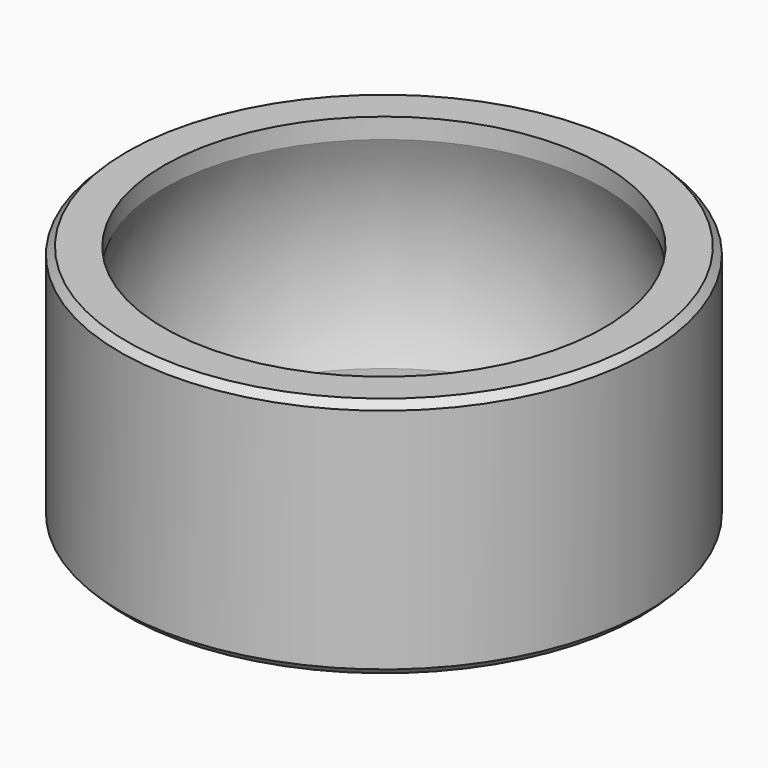
from build123d import *

# Parameters (mm, degrees)
F2_SIZE = 0.508


with BuildPart() as f1:
    # F0 (on Front) → F1 (revolve)
    with BuildSketch(Plane.XZ):
        with BuildLine():
            Line((-19.05, 8.7249), (-19.05, -8.7249))
            Line((-19.05, -8.7249), (-15.875, -8.7249))
            Line((-15.875, -8.7249), (-15.875, -7.274839))
            ThreePointArc((-15.875, -7.274839), (-17.4625, 0), (-15.875, 7.274839))
            Line((-15.875, 7.274839), (-15.875, 8.7249))
            Line((-15.875, 8.7249), (-19.05, 8.7249))
        make_face()
    revolve(axis=Axis((0, 0, -0.747743), (0, 0, -1)))

    # F2
    f2_edges = [f1.edges().sort_by_distance(p)[0] for p in [
        (19.05, 0, 8.7249),
        (19.05, 0, -8.7249),
    ]]
    chamfer(f2_edges, length=F2_SIZE)


solid = f1.part
